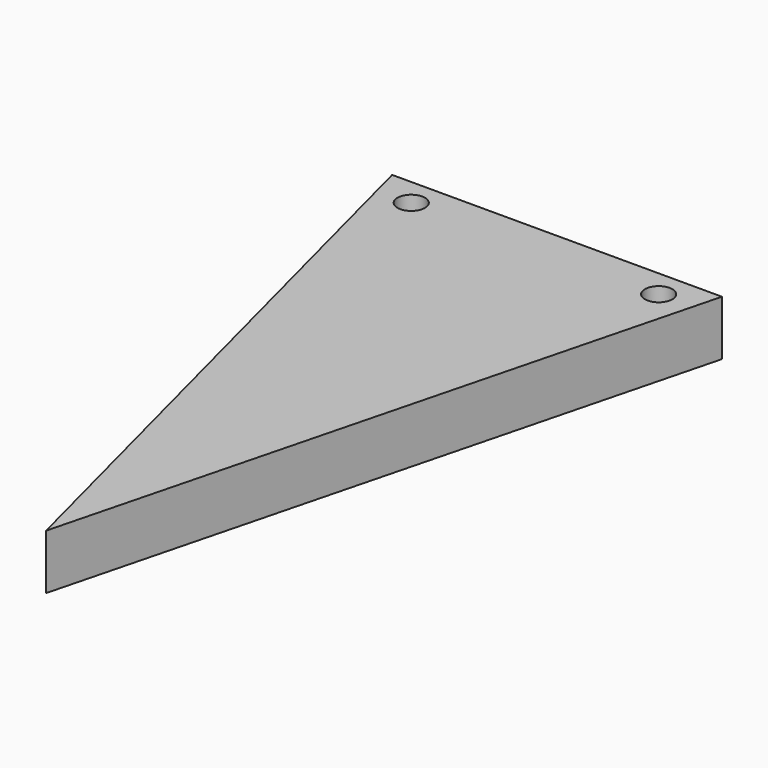
from build123d import *

# Parameters (mm, degrees)
F1_DEPTH = 25.4
F2_R     = 6.35
F3_DEPTH = 25.4


with BuildPart() as f1:
    # F0 (on Top) → F1 (new body)
    with BuildSketch(Plane.XY):
        Polygon((76.2, 177.238014), (-76.2, 177.238014), (0, -117.883317), align=None)
    extrude(amount=F1_DEPTH)

    # F2 (on face) → F3 (cut)
    with BuildSketch(Plane.XY.offset(25.4)):
        with Locations((-57.170211, 164.495959)):
            Circle(F2_R)
        with Locations((57.170211, 164.495959)):
            Circle(F2_R)
    extrude(amount=-F3_DEPTH, mode=Mode.SUBTRACT)


solid = f1.part
